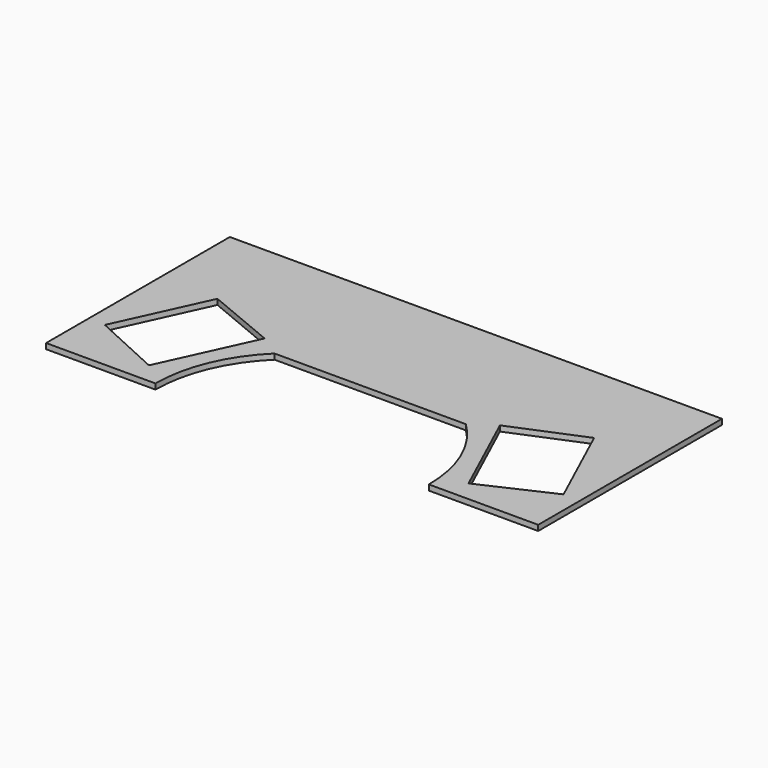
from build123d import *

# Parameters (mm, degrees)
F1_DEPTH = 25.4


with BuildPart() as f1:
    # F0 (on Top) → F1 (new body)
    with BuildSketch(Plane.XY):
        with BuildLine():
            Line((0, 609.6), (-1143, 609.6))
            Line((-1143, 609.6), (-1143, 0))
            Line((-1143, 0), (-1143, -457.2))
            Line((-1143, -457.2), (-635, -457.2))
            ThreePointArc((-635, -457.2), (-585.441073, -211.265558), (-444.5, -3.719295))
            Line((-444.5, -3.719295), (444.5, -3.719295))
            ThreePointArc((444.5, -3.719295), (585.441073, -211.265558), (635, -457.2))
            Line((635, -457.2), (1143, -457.2))
            Line((1143, -457.2), (1143, 0))
            Line((1143, 0), (1143, 609.6))
            Line((1143, 609.6), (0, 609.6))
        make_face()
        Polygon((-874.864551, 202.616595), (-546.491051, 66.153398), (-658.347487, -177.842677), (-742.352484, -361.085502), (-1065.394138, -212.991774), align=None, mode=Mode.SUBTRACT)
        Polygon((742.352484, -361.085502), (658.347487, -177.842677), (546.491051, 66.153398), (874.864551, 202.616595), (1065.394138, -212.991774), align=None, mode=Mode.SUBTRACT)
    extrude(amount=F1_DEPTH)


solid = f1.part
